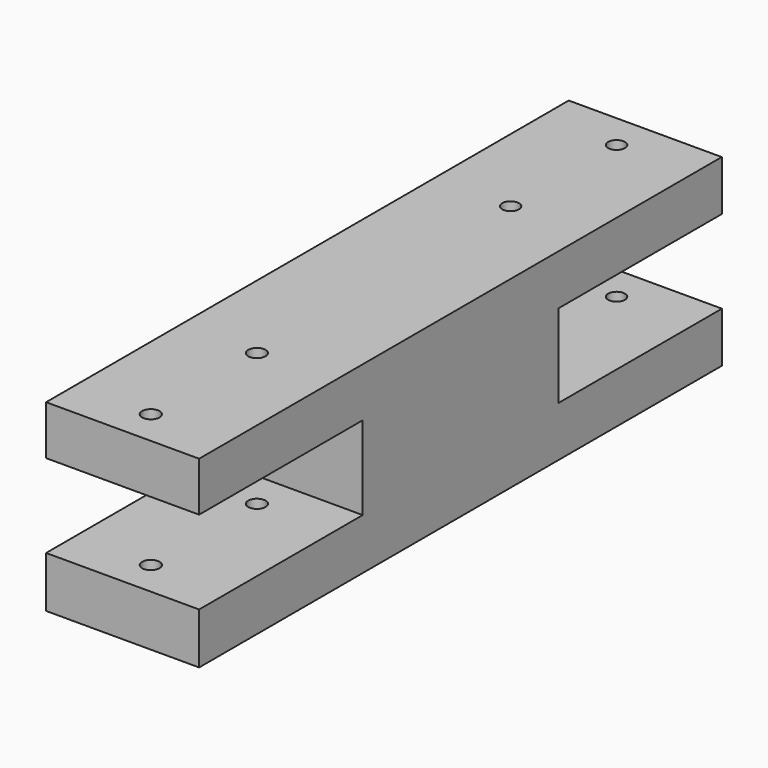
from build123d import *

# Parameters (mm, degrees)
PAD_DEPTH            = 30
SKETCH001_R          = 1.647318
SKETCH001_R_2        = 1.644279
SKETCH001_R_3        = 1.702169
SKETCH001_R_4        = 1.703214
POCKET_DEPTH         = 600
POCKET_DEPTH_BACK    = -600
POCKET001_DEPTH      = 3.3
POCKET001_DEPTH_BACK = -3.3
SKETCH005_R          = 1.5
POCKET006_DEPTH      = 5
POCKET006_FACE59_R   = 1.5
POCKET007_DEPTH      = 5


with BuildPart() as part:
    # Sketch → Pad (new body)
    with BuildSketch(Plane.YZ.offset(707.5)):
        Polygon((-29.833706, -213.381088), (98.242805, -213.381088), (98.242805, -223.224411), (58.176593, -223.224411), (58.176593, -239.563995), (98.283882, -239.563995), (98.283882, -249.413437), (-29.832484, -249.413437), (-29.832484, -239.402665), (10.249295, -239.402665), (10.249295, -223.039155), (-29.833706, -223.039155), align=None)
    extrude(amount=-PAD_DEPTH)

    # Sketch001 (on Face1 of Pad) → Pocket (cut, two sides)
    with BuildSketch(Plane(origin=(707.5, 0, -213.381088), x_dir=(0, -1, 0), z_dir=(0, 0, 1))) as pocket_sk:
        with Locations((-91.299301, -15.072129)):
            Circle(SKETCH001_R)
        with Locations((-65.313827, -15.0565)):
            Circle(SKETCH001_R_2)
        with Locations((-3.04988, -14.977353)):
            Circle(SKETCH001_R_3)
        with Locations((22.941161, -14.98072)):
            Circle(SKETCH001_R_4)
    extrude(amount=-POCKET_DEPTH, mode=Mode.SUBTRACT)
    extrude(pocket_sk.sketch, amount=-POCKET_DEPTH_BACK, mode=Mode.SUBTRACT)

    # Sketch002 → Pocket001 (cut, two sides)
    with BuildSketch(Plane.XY.offset(-249.6)) as pocket001_sk:
        Polygon((689.718567, -21.348757), (689.712699, -24.584869), (692.51232, -26.208007), (695.317809, -24.595033), (695.323677, -21.358921), (692.524056, -19.735783), align=None)
        Polygon((689.964521, 5.02151), (689.5629, 1.806498), (692.146371, -0.148822), (695.131463, 1.11087), (695.533085, 4.325882), (692.949613, 6.281202), align=None)
        Polygon((689.710385, 63.575304), (692.575997, 62.063394), (695.318155, 63.789132), (695.194701, 67.026779), (692.32909, 68.538689), (689.586932, 66.812951), align=None)
        Polygon((689.714374, 93.046585), (689.545318, 89.810999), (692.262889, 88.046798), (695.149518, 89.518184), (695.318574, 92.75377), (692.601003, 94.517971), align=None)
    extrude(amount=-POCKET001_DEPTH, mode=Mode.SUBTRACT)
    extrude(pocket001_sk.sketch, amount=-POCKET001_DEPTH_BACK, mode=Mode.SUBTRACT)

    # Sketch005 (on Face4 of Pocket001) → Pocket006 (cut)
    with BuildSketch(Plane(origin=(677.5, 0, 0), x_dir=(0, 1, 0), z_dir=(-1, 0, 0))):
        Polygon((37.439188, 231.557562), (35.826938, 234.350061), (32.602438, 234.350061), (30.990188, 231.557562), (32.602438, 228.765063), (35.826938, 228.765063), align=None)
        with Locations((34.214688, 231.557562)):
            Circle(SKETCH005_R, mode=Mode.SUBTRACT)
    extrude(amount=-POCKET006_DEPTH, mode=Mode.SUBTRACT)

    # Pocket006 Face59 → Pocket007 (cut)
    with BuildSketch(Plane(origin=(677.5, 34.214688, -231.557562), x_dir=(0, 1, 0), z_dir=(-1, 0, 0))):
        Circle(POCKET006_FACE59_R)
    extrude(amount=-POCKET007_DEPTH, mode=Mode.SUBTRACT)


solid = part.part
